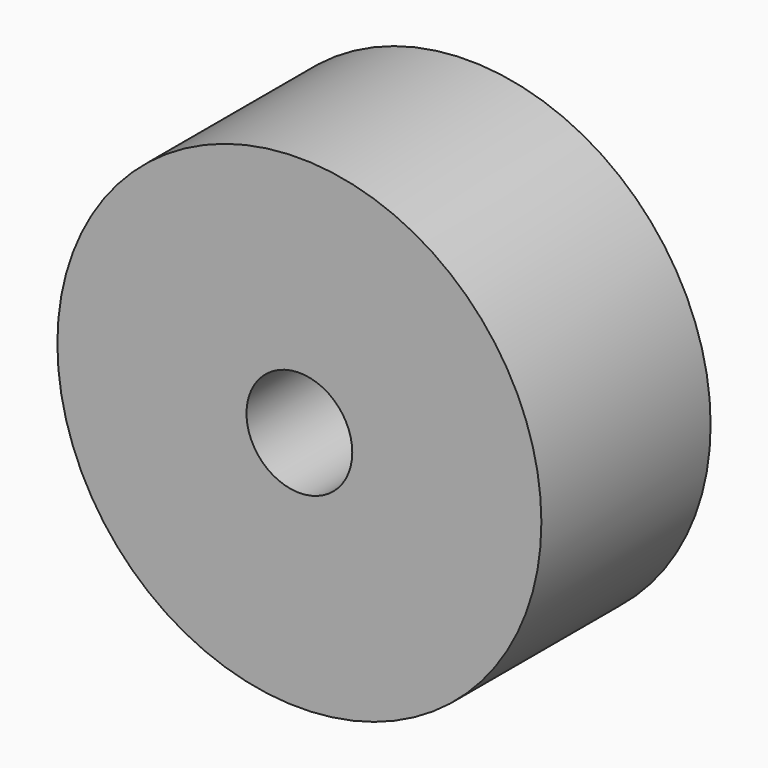
from build123d import *

# Parameters (mm, degrees)
F0_R     = 29.057185
F1_DEPTH = 25.4
F2_R     = 6.35
F3_DEPTH = 25.4


with BuildPart() as f1:
    # F0 (on Front) → F1 (new body)
    with BuildSketch(Plane.XZ):
        with Locations((-53.118221, 0)):
            Circle(F0_R)
    extrude(amount=F1_DEPTH)

    # F2 (on face) → F3 (cut, through all)
    with BuildSketch(Plane.XZ.offset(25.4)):
        with Locations((-53.118221, 0)):
            Circle(F2_R)
    extrude(amount=-F3_DEPTH, mode=Mode.SUBTRACT)


solid = f1.part
